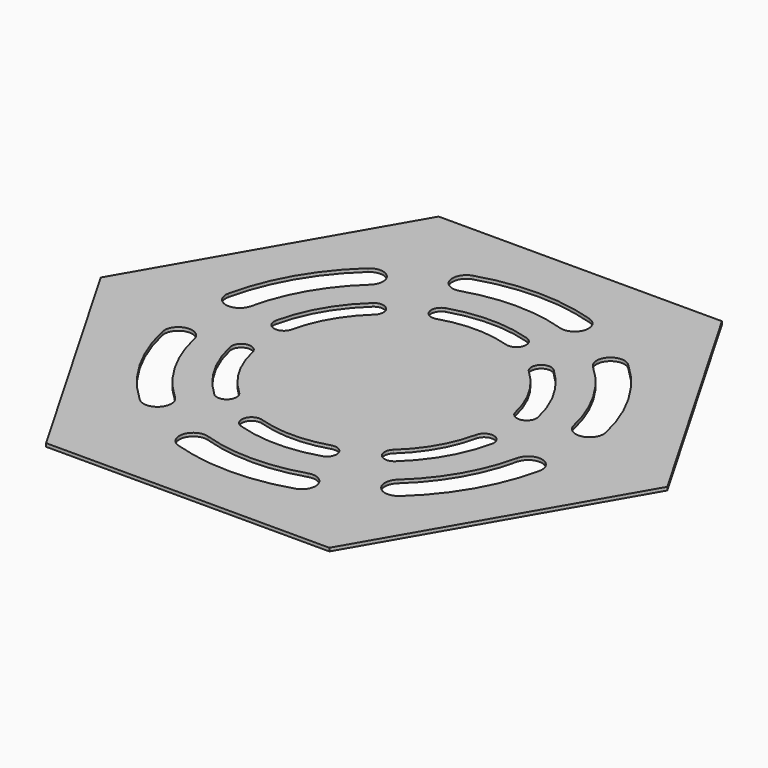
from build123d import *

# Parameters (mm, degrees)
F1_DEPTH = 1
F3_DEPTH = 1.001


with BuildPart() as f1:
    # F0 (on Top) → F1 (new body)
    with BuildSketch(Plane.XY):
        Polygon((86.60254, 0), (43.30127, 75), (-43.30127, 75), (-86.60254, 0), (-43.30127, -75), (43.30127, -75), align=None)
    extrude(amount=F1_DEPTH)

    # F2 (on face) → F3 (cut, through all)
    with BuildSketch(Plane.XY.offset(1)):
        with BuildLine():
            ThreePointArc((49.32332, 10.8379), (52.562192, 15.900973), (57.625265, 12.6621))
            ThreePointArc((57.625265, 12.6621), (51.095499, 29.5), (39.778333, 43.573894))
            ThreePointArc((39.778333, 43.573894), (40.801415, 42.150409), (41.162945, 40.435096))
            ThreePointArc((41.162945, 40.435096), (38.628258, 36.546626), (34.047557, 37.296299))
            ThreePointArc((34.047557, 37.296299), (43.734283, 25.25), (49.32332, 10.8379))
        make_face()
        with BuildLine():
            ThreePointArc((57.724293, 11.75), (57.699463, 12.20873), (57.625265, 12.6621))
            ThreePointArc((57.625265, 12.6621), (52.562192, 15.900973), (49.32332, 10.8379))
            ThreePointArc((49.32332, 10.8379), (53.933023, 7.524829), (57.724293, 11.75))
        make_face()
        with BuildLine():
            ThreePointArc((41.162945, 40.435096), (40.801415, 42.150409), (39.778333, 43.573894))
            ThreePointArc((39.778333, 43.573894), (33.774148, 43.300485), (34.047557, 37.296299))
            ThreePointArc((34.047557, 37.296299), (38.628258, 36.546626), (41.162945, 40.435096))
        make_face()
        with BuildLine():
            ThreePointArc((-15.275764, 48.134198), (-13.131608, 49.675239), (-12.311348, 52.185096))
            ThreePointArc((-12.311348, 52.185096), (-14.051491, 55.614836), (-17.846932, 56.235994))
            ThreePointArc((-17.846932, 56.235994), (-20.612246, 50.899512), (-15.275764, 48.134198))
        make_face()
        with BuildLine():
            ThreePointArc((-17.846932, 56.235994), (-14.051491, 55.614836), (-12.311348, 52.185096))
            ThreePointArc((-12.311348, 52.185096), (-13.131608, 49.675239), (-15.275764, 48.134198))
            ThreePointArc((-15.275764, 48.134198), (0, 50.5), (15.275764, 48.134198))
            ThreePointArc((15.275764, 48.134198), (12.51045, 53.47068), (17.846932, 56.235994))
            ThreePointArc((17.846932, 56.235994), (0, 59), (-17.846932, 56.235994))
        make_face()
        with BuildLine():
            ThreePointArc((20.811348, 52.185096), (19.991088, 54.694953), (17.846932, 56.235994))
            ThreePointArc((17.846932, 56.235994), (12.51045, 53.47068), (15.275764, 48.134198))
            ThreePointArc((15.275764, 48.134198), (19.071205, 48.755356), (20.811348, 52.185096))
        make_face()
        with BuildLine():
            ThreePointArc((-49.32332, 10.8379), (-49.249122, 11.29127), (-49.224293, 11.75))
            ThreePointArc((-49.224293, 11.75), (-53.015563, 15.975171), (-57.625265, 12.6621))
            ThreePointArc((-57.625265, 12.6621), (-54.386393, 7.599027), (-49.32332, 10.8379))
        make_face()
        with BuildLine():
            ThreePointArc((-57.625265, 12.6621), (-53.015563, 15.975171), (-49.224293, 11.75))
            ThreePointArc((-49.224293, 11.75), (-49.249122, 11.29127), (-49.32332, 10.8379))
            ThreePointArc((-49.32332, 10.8379), (-43.734283, 25.25), (-34.047557, 37.296299))
            ThreePointArc((-34.047557, 37.296299), (-40.051742, 37.569708), (-39.778333, 43.573894))
            ThreePointArc((-39.778333, 43.573894), (-51.095499, 29.5), (-57.625265, 12.6621))
        make_face()
        with BuildLine():
            ThreePointArc((-32.662945, 40.435096), (-35.197632, 44.323566), (-39.778333, 43.573894))
            ThreePointArc((-39.778333, 43.573894), (-40.051742, 37.569708), (-34.047557, 37.296299))
            ThreePointArc((-34.047557, 37.296299), (-33.024475, 38.719783), (-32.662945, 40.435096))
        make_face()
        with BuildLine():
            ThreePointArc((-39.778333, -43.573894), (-35.197632, -44.323566), (-32.662945, -40.435096))
            ThreePointArc((-32.662945, -40.435096), (-33.024475, -38.719783), (-34.047557, -37.296299))
            ThreePointArc((-34.047557, -37.296299), (-40.051742, -37.569708), (-39.778333, -43.573894))
        make_face()
        with BuildLine():
            ThreePointArc((-39.778333, -43.573894), (-40.051742, -37.569708), (-34.047557, -37.296299))
            ThreePointArc((-34.047557, -37.296299), (-43.734283, -25.25), (-49.32332, -10.8379))
            ThreePointArc((-49.32332, -10.8379), (-49.249122, -11.29127), (-49.224293, -11.75))
            ThreePointArc((-49.224293, -11.75), (-53.015563, -15.975171), (-57.625265, -12.6621))
            ThreePointArc((-57.625265, -12.6621), (-51.095499, -29.5), (-39.778333, -43.573894))
        make_face()
        with BuildLine():
            ThreePointArc((-49.224293, -11.75), (-49.249122, -11.29127), (-49.32332, -10.8379))
            ThreePointArc((-49.32332, -10.8379), (-54.386393, -7.599027), (-57.625265, -12.6621))
            ThreePointArc((-57.625265, -12.6621), (-53.015563, -15.975171), (-49.224293, -11.75))
        make_face()
        with BuildLine():
            ThreePointArc((17.846932, -56.235994), (19.991088, -54.694953), (20.811348, -52.185096))
            ThreePointArc((20.811348, -52.185096), (19.071205, -48.755356), (15.275764, -48.134198))
            ThreePointArc((15.275764, -48.134198), (12.51045, -53.47068), (17.846932, -56.235994))
        make_face()
        with BuildLine():
            ThreePointArc((17.846932, -56.235994), (12.51045, -53.47068), (15.275764, -48.134198))
            ThreePointArc((15.275764, -48.134198), (0, -50.5), (-15.275764, -48.134198))
            ThreePointArc((-15.275764, -48.134198), (-13.131608, -49.675239), (-12.311348, -52.185096))
            ThreePointArc((-12.311348, -52.185096), (-14.051491, -55.614836), (-17.846932, -56.235994))
            ThreePointArc((-17.846932, -56.235994), (0, -59), (17.846932, -56.235994))
        make_face()
        with BuildLine():
            ThreePointArc((-12.311348, -52.185096), (-13.131608, -49.675239), (-15.275764, -48.134198))
            ThreePointArc((-15.275764, -48.134198), (-20.612246, -50.899512), (-17.846932, -56.235994))
            ThreePointArc((-17.846932, -56.235994), (-14.051491, -55.614836), (-12.311348, -52.185096))
        make_face()
        with BuildLine():
            ThreePointArc((57.625265, -12.6621), (57.699463, -12.20873), (57.724293, -11.75))
            ThreePointArc((57.724293, -11.75), (53.933023, -7.524829), (49.32332, -10.8379))
            ThreePointArc((49.32332, -10.8379), (52.562192, -15.900973), (57.625265, -12.6621))
        make_face()
        with BuildLine():
            ThreePointArc((57.625265, -12.6621), (52.562192, -15.900973), (49.32332, -10.8379))
            ThreePointArc((49.32332, -10.8379), (43.734283, -25.25), (34.047557, -37.296299))
            ThreePointArc((34.047557, -37.296299), (38.628258, -36.546626), (41.162945, -40.435096))
            ThreePointArc((41.162945, -40.435096), (40.801415, -42.150409), (39.778333, -43.573894))
            ThreePointArc((39.778333, -43.573894), (51.095499, -29.5), (57.625265, -12.6621))
        make_face()
        with BuildLine():
            ThreePointArc((41.162945, -40.435096), (38.628258, -36.546626), (34.047557, -37.296299))
            ThreePointArc((34.047557, -37.296299), (33.774148, -43.300485), (39.778333, -43.573894))
            ThreePointArc((39.778333, -43.573894), (40.801415, -42.150409), (41.162945, -40.435096))
        make_face()
        with BuildLine():
            ThreePointArc((34.184479, 7.511416), (36.470742, 11.085349), (40.044676, 8.799087))
            ThreePointArc((40.044676, 8.799087), (35.507042, 20.5), (27.642571, 30.280163))
            ThreePointArc((27.642571, 30.280163), (28.364746, 29.275351), (28.619944, 28.064542))
            ThreePointArc((28.619944, 28.064542), (26.830753, 25.319739), (23.597316, 25.84892))
            ThreePointArc((23.597316, 25.84892), (30.310889, 17.5), (34.184479, 7.511416))
        make_face()
        with BuildLine():
            ThreePointArc((40.114578, 8.155251), (40.097051, 8.479061), (40.044676, 8.799087))
            ThreePointArc((40.044676, 8.799087), (36.470742, 11.085349), (34.184479, 7.511416))
            ThreePointArc((34.184479, 7.511416), (37.438387, 5.172778), (40.114578, 8.155251))
        make_face()
        with BuildLine():
            ThreePointArc((28.619944, 28.064542), (28.364746, 29.275351), (27.642571, 30.280163))
            ThreePointArc((27.642571, 30.280163), (23.404322, 30.087169), (23.597316, 25.84892))
            ThreePointArc((23.597316, 25.84892), (26.830753, 25.319739), (28.619944, 28.064542))
        make_face()
        with BuildLine():
            ThreePointArc((-10.587163, 33.360335), (-9.073641, 34.448129), (-8.494634, 36.219793))
            ThreePointArc((-8.494634, 36.219793), (-9.72297, 38.640786), (-12.402105, 39.07925))
            ThreePointArc((-12.402105, 39.07925), (-14.354092, 35.312322), (-10.587163, 33.360335))
        make_face()
        with BuildLine():
            ThreePointArc((-12.402105, 39.07925), (-9.72297, 38.640786), (-8.494634, 36.219793))
            ThreePointArc((-8.494634, 36.219793), (-9.073641, 34.448129), (-10.587163, 33.360335))
            ThreePointArc((-10.587163, 33.360335), (0, 35), (10.587163, 33.360335))
            ThreePointArc((10.587163, 33.360335), (8.635177, 37.127264), (12.402105, 39.07925))
            ThreePointArc((12.402105, 39.07925), (0, 41), (-12.402105, 39.07925))
        make_face()
        with BuildLine():
            ThreePointArc((14.494634, 36.219793), (13.915627, 37.991457), (12.402105, 39.07925))
            ThreePointArc((12.402105, 39.07925), (8.635177, 37.127264), (10.587163, 33.360335))
            ThreePointArc((10.587163, 33.360335), (13.266298, 33.7988), (14.494634, 36.219793))
        make_face()
        with BuildLine():
            ThreePointArc((-34.184479, 7.511416), (-34.132104, 7.831442), (-34.114578, 8.155251))
            ThreePointArc((-34.114578, 8.155251), (-36.790768, 11.137725), (-40.044676, 8.799087))
            ThreePointArc((-40.044676, 8.799087), (-37.758413, 5.225153), (-34.184479, 7.511416))
        make_face()
        with BuildLine():
            ThreePointArc((-40.044676, 8.799087), (-36.790768, 11.137725), (-34.114578, 8.155251))
            ThreePointArc((-34.114578, 8.155251), (-34.132104, 7.831442), (-34.184479, 7.511416))
            ThreePointArc((-34.184479, 7.511416), (-30.310889, 17.5), (-23.597316, 25.84892))
            ThreePointArc((-23.597316, 25.84892), (-27.835565, 26.041914), (-27.642571, 30.280163))
            ThreePointArc((-27.642571, 30.280163), (-35.507042, 20.5), (-40.044676, 8.799087))
        make_face()
        with BuildLine():
            ThreePointArc((-22.619944, 28.064542), (-24.409134, 30.809344), (-27.642571, 30.280163))
            ThreePointArc((-27.642571, 30.280163), (-27.835565, 26.041914), (-23.597316, 25.84892))
            ThreePointArc((-23.597316, 25.84892), (-22.875141, 26.853732), (-22.619944, 28.064542))
        make_face()
        with BuildLine():
            ThreePointArc((-27.642571, -30.280163), (-24.409134, -30.809344), (-22.619944, -28.064542))
            ThreePointArc((-22.619944, -28.064542), (-22.875141, -26.853732), (-23.597316, -25.84892))
            ThreePointArc((-23.597316, -25.84892), (-27.835565, -26.041914), (-27.642571, -30.280163))
        make_face()
        with BuildLine():
            ThreePointArc((-27.642571, -30.280163), (-27.835565, -26.041914), (-23.597316, -25.84892))
            ThreePointArc((-23.597316, -25.84892), (-30.310889, -17.5), (-34.184479, -7.511416))
            ThreePointArc((-34.184479, -7.511416), (-34.132104, -7.831442), (-34.114578, -8.155251))
            ThreePointArc((-34.114578, -8.155251), (-36.790768, -11.137725), (-40.044676, -8.799087))
            ThreePointArc((-40.044676, -8.799087), (-35.507042, -20.5), (-27.642571, -30.280163))
        make_face()
        with BuildLine():
            ThreePointArc((-34.114578, -8.155251), (-34.132104, -7.831442), (-34.184479, -7.511416))
            ThreePointArc((-34.184479, -7.511416), (-37.758413, -5.225153), (-40.044676, -8.799087))
            ThreePointArc((-40.044676, -8.799087), (-36.790768, -11.137725), (-34.114578, -8.155251))
        make_face()
        with BuildLine():
            ThreePointArc((12.402105, -39.07925), (13.915627, -37.991457), (14.494634, -36.219793))
            ThreePointArc((14.494634, -36.219793), (13.266298, -33.7988), (10.587163, -33.360335))
            ThreePointArc((10.587163, -33.360335), (8.635177, -37.127264), (12.402105, -39.07925))
        make_face()
        with BuildLine():
            ThreePointArc((12.402105, -39.07925), (8.635177, -37.127264), (10.587163, -33.360335))
            ThreePointArc((10.587163, -33.360335), (0, -35), (-10.587163, -33.360335))
            ThreePointArc((-10.587163, -33.360335), (-9.073641, -34.448129), (-8.494634, -36.219793))
            ThreePointArc((-8.494634, -36.219793), (-9.72297, -38.640786), (-12.402105, -39.07925))
            ThreePointArc((-12.402105, -39.07925), (0, -41), (12.402105, -39.07925))
        make_face()
        with BuildLine():
            ThreePointArc((-8.494634, -36.219793), (-9.073641, -34.448129), (-10.587163, -33.360335))
            ThreePointArc((-10.587163, -33.360335), (-14.354092, -35.312322), (-12.402105, -39.07925))
            ThreePointArc((-12.402105, -39.07925), (-9.72297, -38.640786), (-8.494634, -36.219793))
        make_face()
        with BuildLine():
            ThreePointArc((40.044676, -8.799087), (40.097051, -8.479061), (40.114578, -8.155251))
            ThreePointArc((40.114578, -8.155251), (37.438387, -5.172778), (34.184479, -7.511416))
            ThreePointArc((34.184479, -7.511416), (36.470742, -11.085349), (40.044676, -8.799087))
        make_face()
        with BuildLine():
            ThreePointArc((40.044676, -8.799087), (36.470742, -11.085349), (34.184479, -7.511416))
            ThreePointArc((34.184479, -7.511416), (30.310889, -17.5), (23.597316, -25.84892))
            ThreePointArc((23.597316, -25.84892), (26.830753, -25.319739), (28.619944, -28.064542))
            ThreePointArc((28.619944, -28.064542), (28.364746, -29.275351), (27.642571, -30.280163))
            ThreePointArc((27.642571, -30.280163), (35.507042, -20.5), (40.044676, -8.799087))
        make_face()
        with BuildLine():
            ThreePointArc((28.619944, -28.064542), (26.830753, -25.319739), (23.597316, -25.84892))
            ThreePointArc((23.597316, -25.84892), (23.404322, -30.087169), (27.642571, -30.280163))
            ThreePointArc((27.642571, -30.280163), (28.364746, -29.275351), (28.619944, -28.064542))
        make_face()
    extrude(amount=-F3_DEPTH, mode=Mode.SUBTRACT)


solid = f1.part
